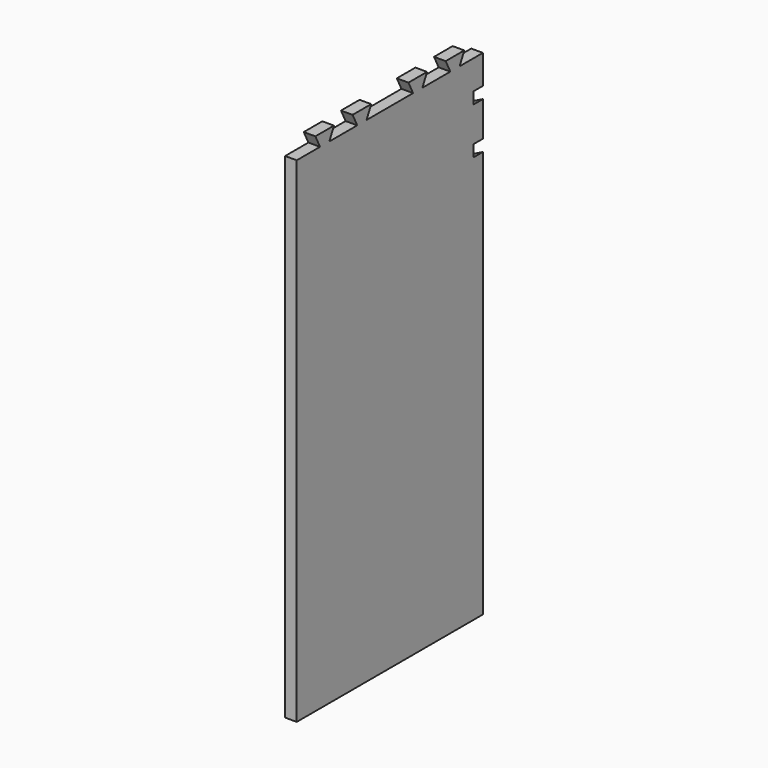
from build123d import *

# Parameters (mm, degrees)
F1_DEPTH = 12
F3_DEPTH = 12
F5_DEPTH = 12


with BuildPart() as f1:
    # F0 (on Right) → F1 (new body)
    with BuildSketch(Plane.YZ):
        Polygon((120, 225), (120, 249), (96, 249), (90, 249), (78, 249), (72, 249), (48, 249), (42, 249), (30, 249), (24, 249), (-24, 249), (-30, 249), (-42, 249), (-48, 249), (-72, 249), (-78, 249), (-90, 249), (-96, 249), (-120, 249), (-120, -261), (120, -261), (120, 153), (108, 153), (108, 177), (120, 177), (120, 201), (108, 201), (108, 225), align=None)
        Polygon((-78, 249), (-72, 261), (-96, 261), (-90, 249), align=None)
        Polygon((-30, 249), (-24, 261), (-48, 261), (-42, 249), align=None)
        Polygon((42, 249), (48, 261), (24, 261), (30, 249), align=None)
        Polygon((90, 249), (96, 261), (72, 261), (78, 249), align=None)
    extrude(amount=F1_DEPTH)

    # F2 (on face) → F3 (join)
    with BuildSketch(Plane(origin=(0, 108, 0), x_dir=(-1, 0, 0), z_dir=(0, 1, 0))):
        Polygon((-12, 219), (0, 225), (-12, 225), align=None)
        Polygon((-12, 201), (0, 201), (-12, 207), align=None)
    extrude(amount=F3_DEPTH)

    # F4 (on face) → F5 (join)
    with BuildSketch(Plane(origin=(0, 108, 0), x_dir=(-1, 0, 0), z_dir=(0, 1, 0))):
        Polygon((-12, 171), (0, 177), (-12, 177), align=None)
        Polygon((-12, 153), (0, 153), (-12, 159), align=None)
    extrude(amount=F5_DEPTH)


solid = f1.part
